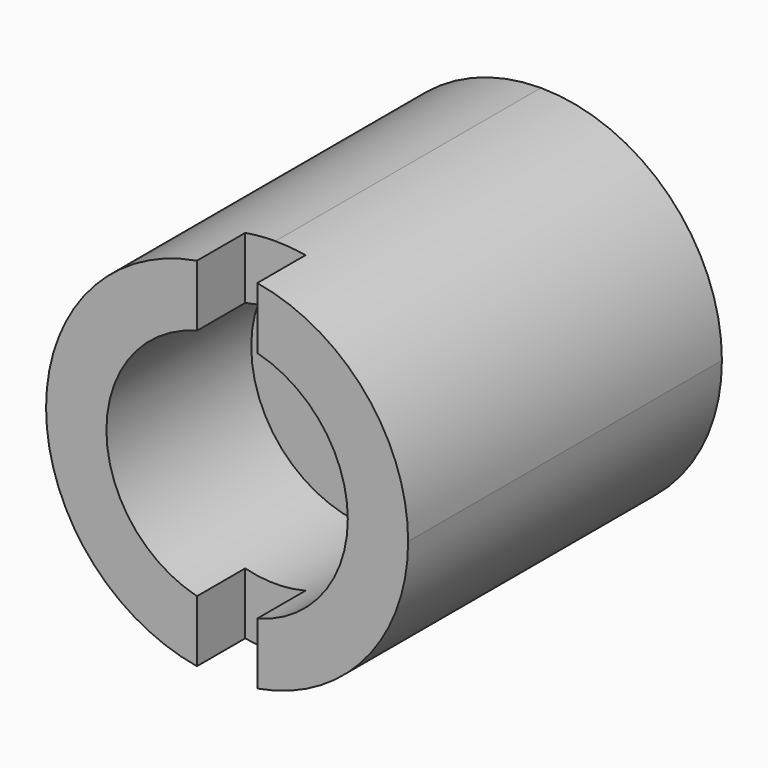
from build123d import *

# Parameters (mm, degrees)
F0_W     = 19.05
F0_H     = 19.05
F1_DEPTH = 20.6375
F2_R     = 6.35
F3_DEPTH = 9.525
F5_DEPTH = 25.4
F7_DEPTH = 25.4


with BuildPart() as f1:
    # F0 (on Front) → F1 (new body)
    with BuildSketch(Plane.XZ):
        Rectangle(F0_W, F0_H)
    extrude(amount=F1_DEPTH)

    # F2 (on face) → F3 (cut)
    with BuildSketch(Plane.XZ.offset(20.6375)):
        Circle(F2_R)
    extrude(amount=-F3_DEPTH, mode=Mode.SUBTRACT)

    # F4 (on face) → F5 (cut)
    with BuildSketch(Plane.XY.offset(9.525)):
        Polygon((-1.5875, -20.6375), (0, -20.6375), (1.5875, -20.6375), (1.5875, -17.4625), (-1.5875, -17.4625), align=None)
    extrude(amount=-F5_DEPTH, mode=Mode.SUBTRACT)

    # F6 (on face) → F7 (cut)
    with BuildSketch(Plane(origin=(0, 0, 0), x_dir=(-1, 0, 0), z_dir=(0, 1, 0))):
        with BuildLine():
            ThreePointArc((-9.525, 0), (-6.7351920908, 6.7351920908), (0, 9.525))
            Line((0, 9.525), (-9.525, 9.525))
            Line((-9.525, 9.525), (-9.525, 0))
        make_face()
        with BuildLine():
            ThreePointArc((0, 9.525), (6.7351920908, 6.7351920908), (9.525, 0))
            Line((9.525, 0), (9.525, 9.525))
            Line((9.525, 9.525), (0, 9.525))
        make_face()
        with BuildLine():
            Line((-9.525, -9.525), (0, -9.525))
            ThreePointArc((0, -9.525), (-6.7351920908, -6.7351920908), (-9.525, 0))
            Line((-9.525, 0), (-9.525, -9.525))
        make_face()
        with BuildLine():
            Line((9.525, -9.525), (9.525, 0))
            ThreePointArc((9.525, 0), (6.7351920908, -6.7351920908), (0, -9.525))
            Line((0, -9.525), (9.525, -9.525))
        make_face()
    extrude(amount=-F7_DEPTH, mode=Mode.SUBTRACT)


solid = f1.part
